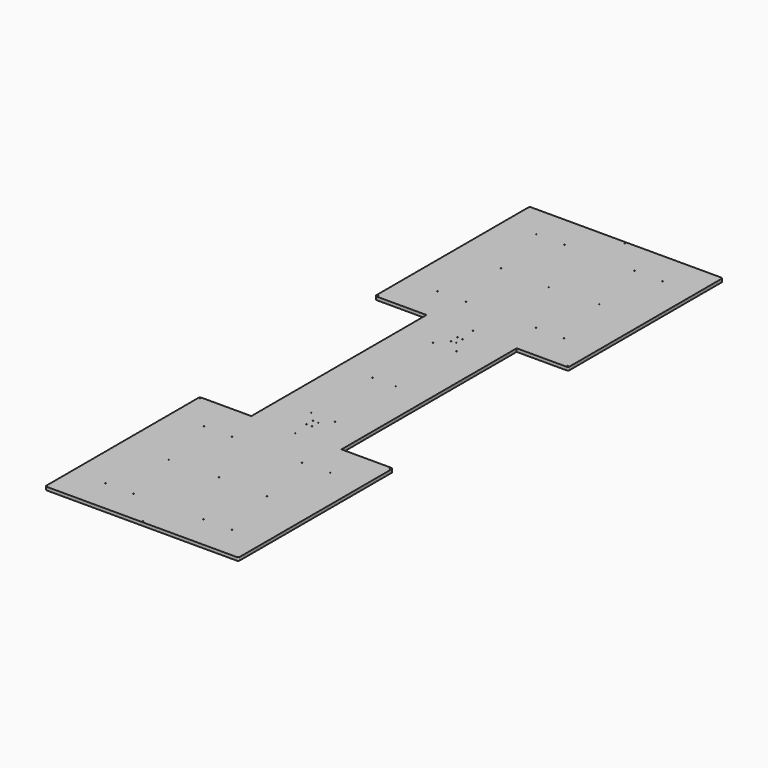
from build123d import *

# Parameters (mm, degrees)
F0_R     = 1.7272
F1_DEPTH = 12.7
F2_R     = 1.7272
F3_DEPTH = 12.7
F4_R     = 6.35


with BuildPart() as f1:
    # F0 (on Top) → F1 (new body)
    with BuildSketch(Plane.XY):
        Polygon((-177.8, 431.8), (-177.8, -431.8), (-381, -431.8), (-381, -1193.8), (381, -1193.8), (381, -431.8), (177.8, -431.8), (177.8, 431.8), (381, 431.8), (381, 1193.8), (-381, 1193.8), (-381, 431.8), align=None)
        with Locations((-249.2375, -1062.0375)):
            Circle(F0_R, mode=Mode.SUBTRACT)
        with Locations((-193.675, -819.15)):
            Circle(F0_R, mode=Mode.SUBTRACT)
        with Locations((-138.1125, -1062.0375)):
            Circle(F0_R, mode=Mode.SUBTRACT)
        with Locations((-249.2375, -576.2625)):
            Circle(F0_R, mode=Mode.SUBTRACT)
        with Locations((-138.1125, -576.2625)):
            Circle(F0_R, mode=Mode.SUBTRACT)
        with Locations((-46.0375, -300.0375)):
            Circle(F0_R, mode=Mode.SUBTRACT)
        with Locations((138.1125, -1062.0375)):
            Circle(F0_R, mode=Mode.SUBTRACT)
        with Locations((249.2375, -1062.0375)):
            Circle(F0_R, mode=Mode.SUBTRACT)
        with Locations((193.675, -819.15)):
            Circle(F0_R, mode=Mode.SUBTRACT)
        with Locations((46.0375, -300.0375)):
            Circle(F0_R, mode=Mode.SUBTRACT)
        with Locations((138.1125, -576.2625)):
            Circle(F0_R, mode=Mode.SUBTRACT)
        with Locations((249.2375, -576.2625)):
            Circle(F0_R, mode=Mode.SUBTRACT)
        with Locations((-249.2375, 576.2625)):
            Circle(F0_R, mode=Mode.SUBTRACT)
        with Locations((-46.0375, 0)):
            Circle(F0_R, mode=Mode.SUBTRACT)
        with Locations((-138.1125, 576.2625)):
            Circle(F0_R, mode=Mode.SUBTRACT)
        with Locations((-46.0375, 300.0375)):
            Circle(F0_R, mode=Mode.SUBTRACT)
        with Locations((-193.675, 819.15)):
            Circle(F0_R, mode=Mode.SUBTRACT)
        with Locations((-249.2375, 1062.0375)):
            Circle(F0_R, mode=Mode.SUBTRACT)
        with Locations((-138.1125, 1062.0375)):
            Circle(F0_R, mode=Mode.SUBTRACT)
        with Locations((46.0375, 0)):
            Circle(F0_R, mode=Mode.SUBTRACT)
        with Locations((46.0375, 300.0375)):
            Circle(F0_R, mode=Mode.SUBTRACT)
        with Locations((138.1125, 576.2625)):
            Circle(F0_R, mode=Mode.SUBTRACT)
        with Locations((249.2375, 576.2625)):
            Circle(F0_R, mode=Mode.SUBTRACT)
        with Locations((138.1125, 1062.0375)):
            Circle(F0_R, mode=Mode.SUBTRACT)
        with Locations((193.675, 819.15)):
            Circle(F0_R, mode=Mode.SUBTRACT)
        with Locations((249.2375, 1062.0375)):
            Circle(F0_R, mode=Mode.SUBTRACT)
    extrude(amount=F1_DEPTH)

    # F2 (on face) → F3 (cut, through all)
    with BuildSketch(Plane.XY.offset(12.7)):
        with Locations((0, -438.15)):
            Circle(F2_R)
        with Locations((-374.65, -438.15)):
            Circle(F2_R)
        with Locations((374.65, -438.15)):
            Circle(F2_R)
        with Locations((0, -1187.45)):
            Circle(F2_R)
        with Locations((0, -812.8)):
            Circle(F2_R)
        with Locations((374.65, 438.15)):
            Circle(F2_R)
        with Locations((0, 438.15)):
            Circle(F2_R)
        with Locations((0, 812.8)):
            Circle(F2_R)
        with Locations((0, 1187.45)):
            Circle(F2_R)
        with Locations((-374.65, 438.15)):
            Circle(F2_R)
        with Locations((-10.31875, 374.65)):
            Circle(F2_R)
        with Locations((-10.31875, 342.9)):
            Circle(F2_R)
        with Locations((10.31875, 342.9)):
            Circle(F2_R)
        with Locations((10.31875, 374.65)):
            Circle(F2_R)
        with Locations((-10.31875, -336.55)):
            Circle(F2_R)
        with Locations((10.31875, -336.55)):
            Circle(F2_R)
        with Locations((10.31875, -368.3)):
            Circle(F2_R)
        with Locations((-10.31875, -368.3)):
            Circle(F2_R)
    extrude(amount=-F3_DEPTH, mode=Mode.SUBTRACT)

    # F4
    f4_edges = [f1.edges().sort_by_distance(p)[0] for p in [
        (-381, -431.8, 6.35),
        (381, -431.8, 6.35),
        (381, -1193.8, 6.35),
        (-381, -1193.8, 6.35),
        (-381, 431.8, 6.35),
        (381, 431.8, 6.35),
        (381, 1193.8, 6.35),
        (-381, 1193.8, 6.35),
    ]]
    fillet(f4_edges, radius=F4_R)


solid = f1.part
